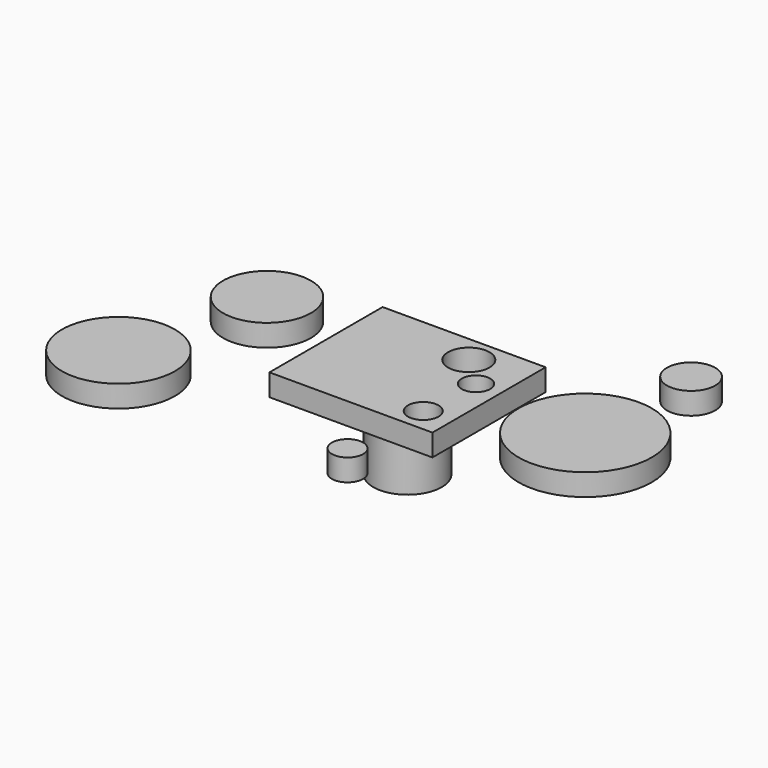
from build123d import *

# Parameters (mm, degrees)
F0_R     = 39.085664
F1_DEPTH = 80.2
F2_W     = 186.04213
F2_H     = 161.459238
F2_R     = 17.430221
F2_R_2   = 16.190519
F2_R_3   = 23.676205
F2_R_4   = 75.985833
F2_R_5   = 27.532152
F2_R_6   = 64.491609
F2_R_7   = 17.81226
F2_R_8   = 50.154967
F3_DEPTH = 25


with BuildPart() as f1:
    # F0 (on Top) → F1 (new body)
    with BuildSketch(Plane.XY):
        Circle(F0_R)
    extrude(amount=F1_DEPTH)

    # F2 (on face) → F3 (join)
    with BuildSketch(Plane.XY.offset(80.2)):
        Rectangle(F2_W, F2_H)
        with Locations((60.582634, -53.31916)):
            Circle(F2_R, mode=Mode.SUBTRACT)
        with Locations((64.53611, 17.02293)):
            Circle(F2_R_2, mode=Mode.SUBTRACT)
        with Locations((30.614452, 49.096078)):
            Circle(F2_R_3, mode=Mode.SUBTRACT)
        with Locations((199.664608, 3.853944)):
            Circle(F2_R_4)
        with Locations((205.565274, 147.545666)):
            Circle(F2_R_5)
        with Locations((-224.644452, -131.577194)):
            Circle(F2_R_6)
        with Locations((52.898742, -151.682943)):
            Circle(F2_R_7)
        with Locations((-185.714856, 31.684417)):
            Circle(F2_R_8)
    extrude(amount=F3_DEPTH)


solid = f1.part
